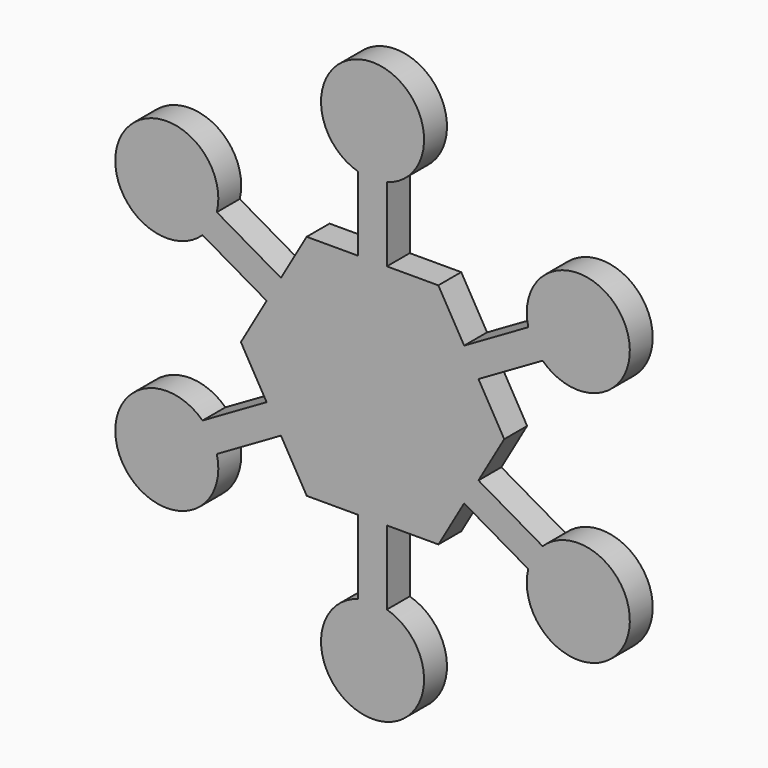
from build123d import *

# Parameters (mm, degrees)
F1_DEPTH = 2.5


with BuildPart() as f1:
    # F0 (on Front) → F1 (new body, symmetric)
    with BuildSketch(Plane.XZ):
        with BuildLine():
            Line((15.998854, 12.123694), (11.489416, 19.924695))
            Line((11.489416, 19.924695), (2.5, 19.919918))
            Line((2.5, 19.919918), (2.5, 32.854192))
            ThreePointArc((2.5, 32.854192), (0, 50.5), (-2.5, 32.854192))
            Line((-2.5, 32.854192), (-2.5, 19.917261))
            Line((-2.5, 19.917261), (-11.510584, 19.912474))
            Line((-11.510584, 19.912474), (-16.001155, 12.125023))
            Line((-16.001155, 12.125023), (-27.202565, 18.592159))
            ThreePointArc((-27.202565, 18.592159), (-43.734283, 25.25), (-29.702565, 14.262032))
            Line((-29.702565, 14.262032), (-18.498854, 7.793567))
            Line((-18.498854, 7.793567), (-23, -0.012222))
            Line((-23, -0.012222), (-18.501155, -7.794896))
            Line((-18.501155, -7.794896), (-29.702565, -14.262032))
            ThreePointArc((-29.702565, -14.262032), (-43.734283, -25.25), (-27.202565, -18.592159))
            Line((-27.202565, -18.592159), (-15.998854, -12.123694))
            Line((-15.998854, -12.123694), (-11.489416, -19.924695))
            Line((-11.489416, -19.924695), (-2.5, -19.919918))
            Line((-2.5, -19.919918), (-2.5, -32.854192))
            ThreePointArc((-2.5, -32.854192), (0, -50.5), (2.5, -32.854192))
            Line((2.5, -32.854192), (2.5, -19.917261))
            Line((2.5, -19.917261), (11.510584, -19.912474))
            Line((11.510584, -19.912474), (16.001155, -12.125023))
            Line((16.001155, -12.125023), (27.202565, -18.592159))
            ThreePointArc((27.202565, -18.592159), (43.734283, -25.25), (29.702565, -14.262032))
            Line((29.702565, -14.262032), (18.498854, -7.793567))
            Line((18.498854, -7.793567), (23, 0.012222))
            Line((23, 0.012222), (18.501155, 7.794896))
            Line((18.501155, 7.794896), (29.702565, 14.262032))
            ThreePointArc((29.702565, 14.262032), (43.734283, 25.25), (27.202565, 18.592159))
            Line((27.202565, 18.592159), (15.998854, 12.123694))
        make_face()
    extrude(amount=F1_DEPTH, both=True)


solid = f1.part
